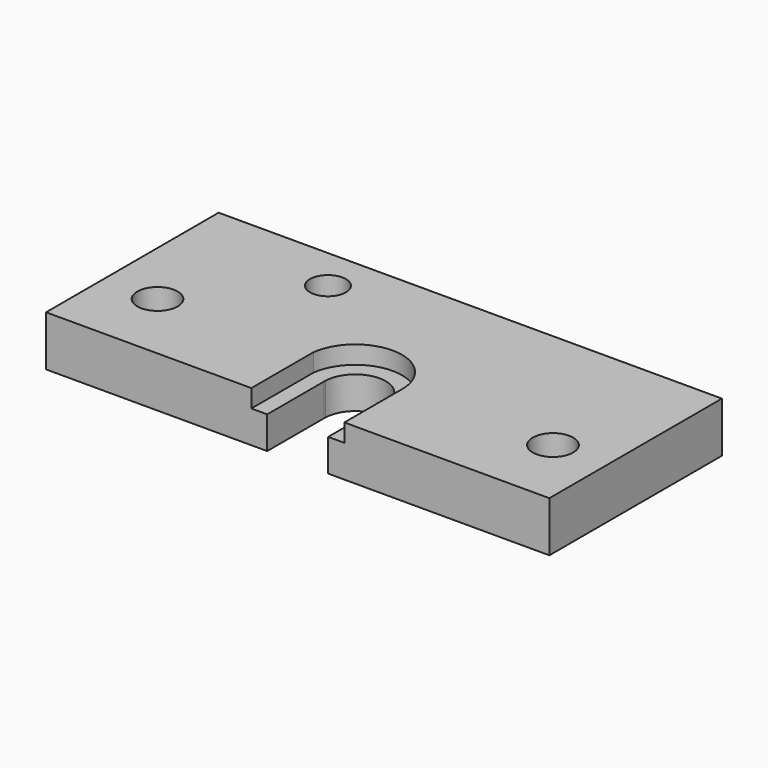
from build123d import *

# Parameters (mm, degrees)
F1_DEPTH       = 14
F3_DEPTH       = 5
F5_D           = 10
F6_R           = 8
F7_DEPTH       = 4
F9_D           = 6.6
F9_CBORE_D     = 11.25
F9_CBORE_DEPTH = 6
F11_D          = 3.2
F11_DEPTH      = 9
F11_TIP        = 0.9613769904


with BuildPart() as f1:
    # F0 (on Top) → F1 (new body)
    with BuildSketch(Plane.XY):
        with BuildLine():
            Line((8.4736176887, -30), (70, -30))
            Line((70, -30), (70, 30))
            Line((70, 30), (-70, 30))
            Line((-70, 30), (-70, -30))
            Line((-70, -30), (-8.4949249349, -30))
            Line((-8.4949249349, -30), (-8.4949249349, -10.2936840984))
            ThreePointArc((-8.4949249349, -10.2936840984), (-8.5, -10), (-8.4949249349, -9.7063159016))
            ThreePointArc((-8.4949249349, -9.7063159016), (0.4815504321, -1.5136515991), (8.4736176887, -10.6691810406))
            Line((8.4736176887, -10.6691810406), (8.4736176887, -30))
        make_face()
    extrude(amount=F1_DEPTH)

    # F2 (on face) → F3 (cut)
    with BuildSketch(Plane.XY.offset(14)):
        with BuildLine():
            Line((12.9707033085, -30), (12.9707033085, -10.8722704179))
            Line((12.9707033085, -10.8722704179), (12.9707033085, -9.1277295821))
            ThreePointArc((12.9707033085, -9.1277295821), (0.3687690423, 2.9947685394), (-12.900361613, -8.3935535324))
            Line((-12.900361613, -8.3935535324), (-12.900361613, -11.6064464676))
            Line((-12.900361613, -11.6064464676), (-12.900361613, -30))
            Line((-12.900361613, -30), (-8.4949249349, -30))
            Line((-8.4949249349, -30), (-8.4949249349, -10.2936840984))
            ThreePointArc((-8.4949249349, -10.2936840984), (0.1880504934, -1.5020804304), (8.4736176887, -10.6691810406))
            Line((8.4736176887, -10.6691810406), (8.4736176887, -30))
            Line((8.4736176887, -30), (12.9707033085, -30))
        make_face()
    extrude(amount=-F3_DEPTH, mode=Mode.SUBTRACT)

    # F5 (through all)
    with Locations(Plane.XY.offset(14)):
        with Locations((-30, 18)):
            Hole(F5_D / 2)

    # F6 (on face) → F7 (cut)
    with BuildSketch(Plane(origin=(0, 0, 0), x_dir=(1, 0, 0), z_dir=(0, 0, -1))):
        with Locations((-55, 10.2936840984)):
            Circle(F6_R)
        with Locations((55, 10.2936840984)):
            Circle(F6_R)
    extrude(amount=-F7_DEPTH, mode=Mode.SUBTRACT)

    # F9 (through all)
    with Locations(Plane.XY.offset(14)):
        with Locations((-55, -10), (55, -10)):
            CounterBoreHole(F9_D / 2, F9_CBORE_D / 2, F9_CBORE_DEPTH)

    # F11
    with Locations(Plane(origin=(0, 30, 0), x_dir=(-1, 0, 0), z_dir=(0, 1, 0))):
        with Locations((30, 7)):
            Hole(F11_D / 2, depth=F11_DEPTH)
            with Locations((0, 0, -(F11_DEPTH + F11_TIP / 2))):  # 118° drill point
                Cone(0, F11_D / 2, F11_TIP, mode=Mode.SUBTRACT)


solid = f1.part
